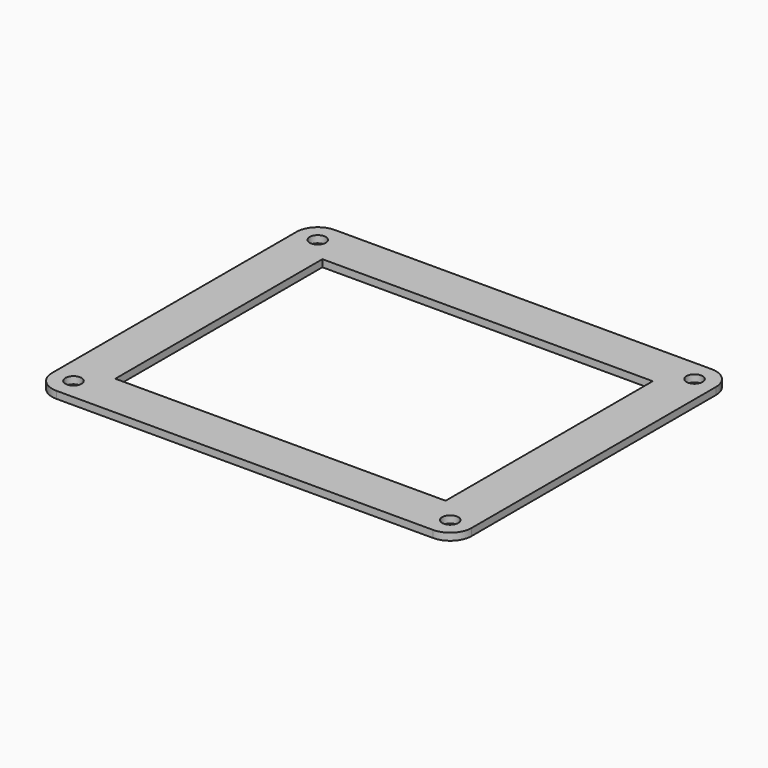
from build123d import *

# Parameters (mm, degrees)
F0_R     = 4.5
F0_W     = 185
F0_H     = 145
F1_DEPTH = 4


with BuildPart() as f1:
    # F0 (on Top) → F1 (new body)
    with BuildSketch(Plane.XY):
        with BuildLine():
            ThreePointArc((0, 12), (3.514719, 3.514719), (12, 0))
            Line((12, 0), (223, 0))
            ThreePointArc((223, 0), (231.485281, 3.514719), (235, 12))
            Line((235, 12), (235, 183))
            ThreePointArc((235, 183), (231.485281, 191.485281), (223, 195))
            Line((223, 195), (12, 195))
            ThreePointArc((12, 195), (3.514719, 191.485281), (0, 183))
            Line((0, 183), (0, 12))
        make_face()
        with Locations((12, 12)):
            Circle(F0_R, mode=Mode.SUBTRACT)
        with Locations((223, 12)):
            Circle(F0_R, mode=Mode.SUBTRACT)
        with Locations((12, 183)):
            Circle(F0_R, mode=Mode.SUBTRACT)
        with Locations((117.5, 97.5)):
            Rectangle(F0_W, F0_H, mode=Mode.SUBTRACT)
        with Locations((223, 183)):
            Circle(F0_R, mode=Mode.SUBTRACT)
    extrude(amount=F1_DEPTH)


solid = f1.part
